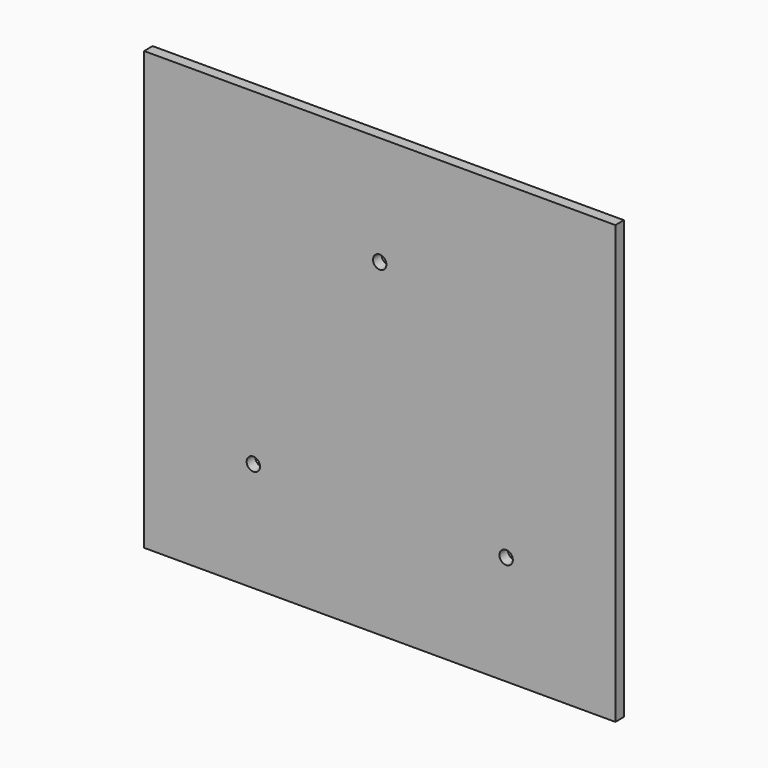
from build123d import *

# Parameters (mm, degrees)
F0_W     = 280.5716638824
F0_H     = 260.4053167929
F1_DEPTH = 6.35
F2_D     = 7.9756


with BuildPart() as f1:
    # F0 (on Front) → F1 (new body)
    with BuildSketch(Plane.XZ):
        with Locations((0, 21.7262194655)):
            Rectangle(F0_W, F0_H)
        with BuildLine():
            ThreePointArc((-75.2618319412, -51.326438931), (-82.0809159706, -47.389438931), (-82.0809159706, -39.515438931))
            Line((-82.0809159706, -39.515438931), (-6.8190840294, 90.8418778619))
            ThreePointArc((-6.8190840294, 90.8418778619), (0, 94.7788778619), (6.8190840294, 90.8418778619))
            Line((6.8190840294, 90.8418778619), (82.0809159706, -39.515438931))
            ThreePointArc((82.0809159706, -39.515438931), (82.0809159706, -47.389438931), (75.2618319412, -51.326438931))
            Line((75.2618319412, -51.326438931), (-75.2618319412, -51.326438931))
        make_face(mode=Mode.SUBTRACT)
        with BuildLine():
            Line((-6.8190840294, 90.8418778619), (-82.0809159706, -39.515438931))
            ThreePointArc((-82.0809159706, -39.515438931), (-82.0809159706, -47.389438931), (-75.2618319412, -51.326438931))
            Line((-75.2618319412, -51.326438931), (75.2618319412, -51.326438931))
            ThreePointArc((75.2618319412, -51.326438931), (82.0809159706, -47.389438931), (82.0809159706, -39.515438931))
            Line((82.0809159706, -39.515438931), (6.8190840294, 90.8418778619))
            ThreePointArc((6.8190840294, 90.8418778619), (0, 94.7788778619), (-6.8190840294, 90.8418778619))
        make_face()
    extrude(amount=F1_DEPTH)

    # F2 (through all)
    with Locations(Plane(origin=(0, 0, 0), x_dir=(1, 0, 0), z_dir=(0, 1, 0))):
        with Locations((0, -86.9048778619), (-75.2618319412, 43.452438931), (75.2618319412, 43.452438931)):
            Hole(F2_D / 2)


solid = f1.part
